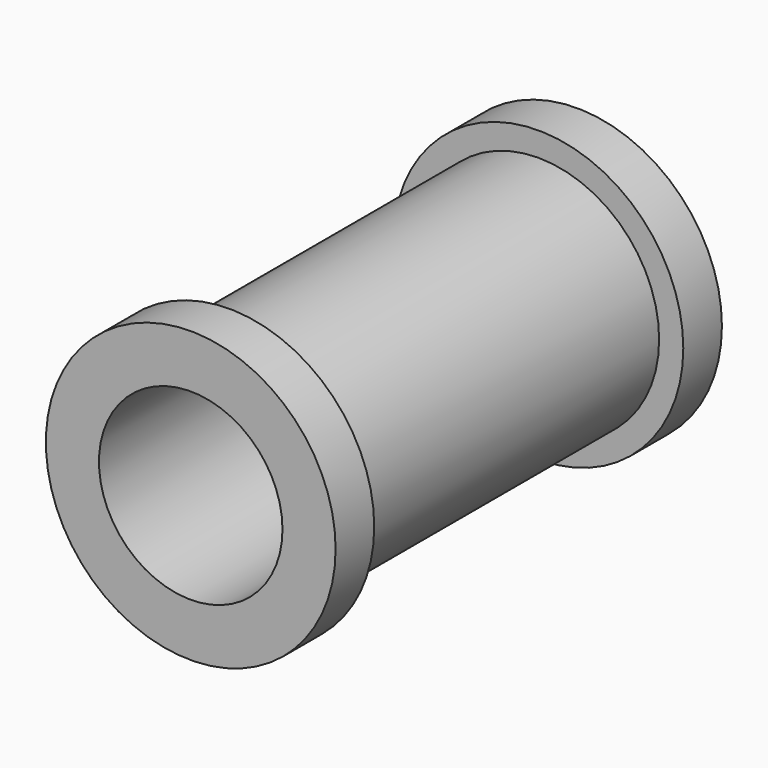
from build123d import *

# Parameters (mm, degrees)
F0_R     = 15.875
F1_DEPTH = 31.75
F2_R     = 19.05
F2_R_2   = 15.875
F3_DEPTH = 6.35
F5_R     = 12.065
F6_DEPTH = 63.501


with BuildPart() as f1:
    # F0 (on Front) → F1 (new body, symmetric)
    with BuildSketch(Plane.XZ):
        Circle(F0_R)
    extrude(amount=F1_DEPTH, both=True)

    # F2 (on face) → F3 (join)
    with BuildSketch(Plane.XZ.offset(31.75)):
        Circle(F2_R)
        Circle(F2_R_2, mode=Mode.SUBTRACT)
    extrude(amount=-F3_DEPTH)

    # F4: F1 across plane


with BuildPart() as f1_1:
    add(f1.part)
    add(f1.part.mirror(Plane.XZ))

    # F5 (on face) → F6 (cut, through all)
    with BuildSketch(Plane.XZ.offset(31.75)):
        Circle(F5_R)
    extrude(amount=-F6_DEPTH, mode=Mode.SUBTRACT)


solid = f1_1.part
